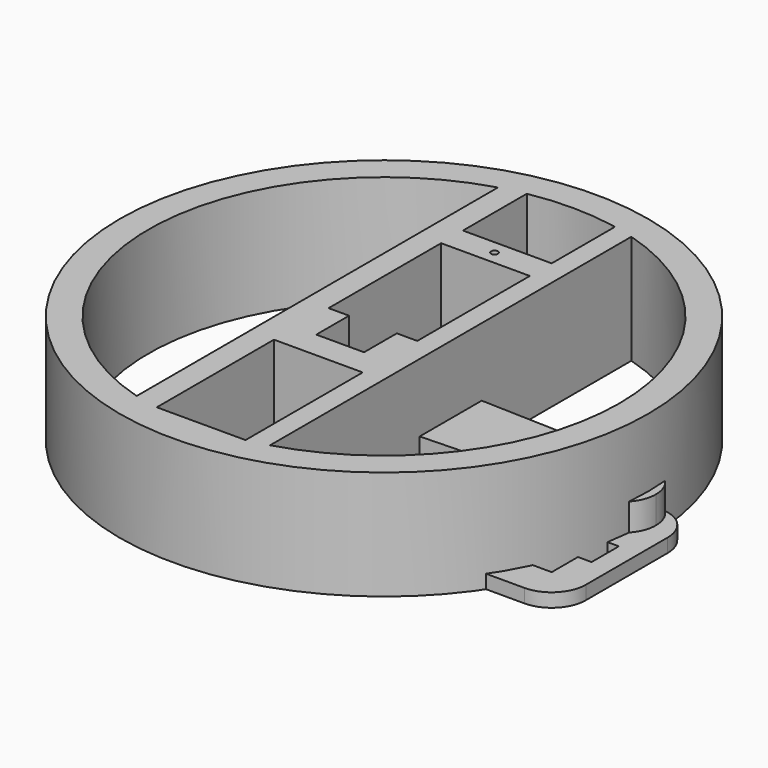
from build123d import *

# Parameters (mm, degrees)
F0_R     = 1.5
F1_DEPTH = 2
F2_R     = 2.5
F3_DEPTH = 6
F4_DEPTH = 6
F5_DEPTH = 3
F6_DEPTH = 2
F7_R     = 38.6996597828
F7_W     = 3
F7_H     = 6
F7_W_2   = 13
F7_H_2   = 4
F7_R_2   = 0.5
F8_DEPTH = 16


with BuildPart() as f1:
    # F0 (on Top) → F1 (new body)
    with BuildSketch(Plane.XY):
        with BuildLine():
            Line((37.7742823958, 3.5), (13.7742823958, 3.5))
            ThreePointArc((13.7742823958, 3.5), (10.2387484899, 2.0355339059), (8.7742823958, -1.5))
            Line((8.7742823958, -1.5), (8.7742823958, -16.5))
            ThreePointArc((8.7742823958, -16.5), (10.2387484899, -20.0355339059), (13.7742823958, -21.5))
            Line((13.7742823958, -21.5), (37.7742823958, -21.5))
            ThreePointArc((37.7742823958, -21.5), (41.3098163018, -20.0355339059), (42.7742823958, -16.5))
            Line((42.7742823958, -16.5), (42.7742823958, -1.5))
            ThreePointArc((42.7742823958, -1.5), (41.3098163018, 2.0355339059), (37.7742823958, 3.5))
        make_face()
        with Locations((25.8386814408, -19)):
            Circle(F0_R, mode=Mode.SUBTRACT)
        Polygon((13.9030804858, -16.5), (13.9030804858, -2.5), (37.7742823958, -2.5), (37.7742823958, -6.7), (39.7742823958, -6.7), (39.7742823958, -11.7), (37.7742823958, -11.7), (37.7742823958, -16.5), align=None, mode=Mode.SUBTRACT)
        with Locations((25.8386814408, 0)):
            Circle(F0_R, mode=Mode.SUBTRACT)
    extrude(amount=F1_DEPTH)


with BuildPart() as f3:
    # F2 (on Top) → F3 (new body)
    with BuildSketch(Plane.XY):
        with BuildLine():
            Line((17.5794553661, 5.423697969), (0, 6))
            ThreePointArc((0, 6), (-6, 0), (0, -6))
            Line((0, -6), (17.5794553661, -5.423697969))
            Line((17.5794553661, -5.423697969), (17.3794570281, -5.0002082628))
            Line((17.3794570281, -5.0002082628), (16.0959043206, -2.2823288828))
            Line((16.0959043206, -2.2823288828), (2.2140783206, -3.331344652))
            ThreePointArc((2.2140783206, -3.331344652), (-4, 0), (2.2140783206, 3.331344652))
            Line((2.2140783206, 3.331344652), (16.1575759853, 2.1249358199))
            Line((16.1575759853, 2.1249358199), (17.3288441212, 4.8422795309))
            Line((17.3288441212, 4.8422795309), (17.5794553661, 5.423697969))
        make_face()
        with BuildLine():
            ThreePointArc((17.3794570281, -5.0002082628), (21.4705136181, -0.0577968417), (17.3288441212, 4.8422795309))
            Line((17.3288441212, 4.8422795309), (16.1575759853, 2.1249358199))
            ThreePointArc((16.1575759853, 2.1249358199), (18.7008759361, -0.1147168864), (16.0959043206, -2.2823288828))
            Line((16.0959043206, -2.2823288828), (17.3794570281, -5.0002082628))
        make_face()
        with BuildLine():
            ThreePointArc((39.85, 0), (38.4851984916, 3.3728165492), (35.1589107322, 4.8473959379))
            ThreePointArc((35.1589107322, 4.8473959379), (33.95920204, 4.7370074526), (32.8237171443, 4.3343157397))
            ThreePointArc((32.8237171443, 4.3343157397), (30.1533127814, -0.179228917), (33.149786536, -4.4832142641))
            ThreePointArc((33.149786536, -4.4832142641), (34.1349662981, -4.7722339312), (35.1589107322, -4.8473959379))
            ThreePointArc((35.1589107322, -4.8473959379), (38.4851984916, -3.3728165492), (39.85, 0))
        make_face()
        with Locations((35, 0)):
            Circle(F2_R, mode=Mode.SUBTRACT)
        with BuildLine():
            ThreePointArc((16.0959043206, -2.2823288828), (18.7008759361, -0.1147168864), (16.1575759853, 2.1249358199))
            Line((16.1575759853, 2.1249358199), (2.2140783206, 3.331344652))
            ThreePointArc((2.2140783206, 3.331344652), (-4, 0), (2.2140783206, -3.331344652))
            Line((2.2140783206, -3.331344652), (16.0959043206, -2.2823288828))
        make_face()
        Circle(F2_R, mode=Mode.SUBTRACT)
        with BuildLine():
            Line((32.8237171443, 4.3343157397), (17.3288441212, 4.8422795309))
            ThreePointArc((17.3288441212, 4.8422795309), (21.4705136181, -0.0577968417), (17.3794570281, -5.0002082628))
            Line((17.3794570281, -5.0002082628), (33.149786536, -4.4832142641))
            ThreePointArc((33.149786536, -4.4832142641), (30.1533127814, -0.179228917), (32.8237171443, 4.3343157397))
        make_face()
    extrude(amount=F3_DEPTH)

    # F2 (on Top) → F4 (join)
    with BuildSketch(Plane.XY):
        with BuildLine():
            Line((35.1589107322, 4.8473959379), (17.5794553661, 5.423697969))
            Line((17.5794553661, 5.423697969), (17.3288441212, 4.8422795309))
            Line((17.3288441212, 4.8422795309), (32.8237171443, 4.3343157397))
            ThreePointArc((32.8237171443, 4.3343157397), (33.95920204, 4.7370074526), (35.1589107322, 4.8473959379))
        make_face()
        with BuildLine():
            Line((17.3794570281, -5.0002082628), (17.5794553661, -5.423697969))
            Line((17.5794553661, -5.423697969), (35.1589107322, -4.8473959379))
            ThreePointArc((35.1589107322, -4.8473959379), (34.1349662981, -4.7722339312), (33.149786536, -4.4832142641))
            Line((33.149786536, -4.4832142641), (17.3794570281, -5.0002082628))
        make_face()
    extrude(amount=F4_DEPTH)

    # F2 (on Top) → F5 (cut)
    with BuildSketch(Plane.XY):
        with BuildLine():
            ThreePointArc((16.0959043206, -2.2823288828), (18.7008759361, -0.1147168864), (16.1575759853, 2.1249358199))
            Line((16.1575759853, 2.1249358199), (2.2140783206, 3.331344652))
            ThreePointArc((2.2140783206, 3.331344652), (-4, 0), (2.2140783206, -3.331344652))
            Line((2.2140783206, -3.331344652), (16.0959043206, -2.2823288828))
        make_face()
        Circle(F2_R, mode=Mode.SUBTRACT)
    extrude(amount=F5_DEPTH, mode=Mode.SUBTRACT)

    # F2 (on Top) → F6 (cut)
    with BuildSketch(Plane.XY):
        with BuildLine():
            Line((32.8237171443, 4.3343157397), (17.3288441212, 4.8422795309))
            ThreePointArc((17.3288441212, 4.8422795309), (21.4705136181, -0.0577968417), (17.3794570281, -5.0002082628))
            Line((17.3794570281, -5.0002082628), (33.149786536, -4.4832142641))
            ThreePointArc((33.149786536, -4.4832142641), (30.1533127814, -0.179228917), (32.8237171443, 4.3343157397))
        make_face()
    extrude(amount=F6_DEPTH, mode=Mode.SUBTRACT)


with BuildPart() as f8:
    # F7 (on Top) → F8 (new body)
    with BuildSketch(Plane.XY):
        Circle(F7_R)
        with BuildLine():
            ThreePointArc((9.7724765655, 33.0869868948), (27.6351265739, 20.653081592), (34.5, 0))
            ThreePointArc((34.5, 0), (27.6351265739, -20.653081592), (9.7724765655, -33.0869868948))
            ThreePointArc((9.7724765655, -33.0869868948), (8.2807860411, -33.4914702953), (6.7724765655, -33.8287386872))
            ThreePointArc((6.7724765655, -33.8287386872), (-1.5451695475, -34.4653804719), (-9.7724765655, -33.0869868948))
            ThreePointArc((-9.7724765655, -33.0869868948), (-34.5, 0), (-9.7724765655, 33.0869868948))
            ThreePointArc((-9.7724765655, 33.0869868948), (-8.0111831757, 33.5569805573), (-6.2275234345, 33.9332867826))
            ThreePointArc((-6.2275234345, 33.9332867826), (0, 34.5), (6.2275234345, 33.9332867826))
            ThreePointArc((6.2275234345, 33.9332867826), (6.5002101948, 33.8821083675), (6.7724765655, 33.8287386872))
            ThreePointArc((6.7724765655, 33.8287386872), (8.2807860411, 33.4914702953), (9.7724765655, 33.0869868948))
        make_face(mode=Mode.SUBTRACT)
        with Locations((5.2724765655, -5.3665565625)):
            Rectangle(F7_W, F7_H)
        with Locations((-4.7275234345, -5.3665565625)):
            Rectangle(F7_W, F7_H)
        with BuildLine():
            Line((9.7724765655, -33.0869868948), (9.7724765655, 33.0869868948))
            ThreePointArc((9.7724765655, 33.0869868948), (8.2807860411, 33.4914702953), (6.7724765655, 33.8287386872))
            Line((6.7724765655, 33.8287386872), (6.7724765655, 22.2471028529))
            Line((6.7724765655, 22.2471028529), (6.7724765655, 18.2471028529))
            Line((6.7724765655, 18.2471028529), (6.7724765655, -2.3665565625))
            Line((6.7724765655, -2.3665565625), (6.7724765655, -8.3665565625))
            Line((6.7724765655, -8.3665565625), (6.7724765655, -12.3665565625))
            Line((6.7724765655, -12.3665565625), (6.7724765655, -33.8287386872))
            ThreePointArc((6.7724765655, -33.8287386872), (8.2807860411, -33.4914702953), (9.7724765655, -33.0869868948))
        make_face()
        with Locations((0.2724765655, 20.2471028529)):
            Rectangle(F7_W_2, F7_H_2)
        with Locations((0, 20.2471028529)):
            Circle(F7_R_2, mode=Mode.SUBTRACT)
        with BuildLine():
            ThreePointArc((-9.7724765655, -33.0869868948), (-1.5451695475, -34.4653804719), (6.7724765655, -33.8287386872))
            Line((6.7724765655, -33.8287386872), (-6.2275234345, -33.8287386872))
            Line((-6.2275234345, -33.8287386872), (-6.2275234345, -12.3665565625))
            Line((-6.2275234345, -12.3665565625), (-6.2275234345, -8.3665565625))
            Line((-6.2275234345, -8.3665565625), (-6.2275234345, -2.3665565625))
            Line((-6.2275234345, -2.3665565625), (-6.2275234345, 18.2471028529))
            Line((-6.2275234345, 18.2471028529), (-6.2275234345, 22.2471028529))
            Line((-6.2275234345, 22.2471028529), (-6.2275234345, 33.9332867826))
            ThreePointArc((-6.2275234345, 33.9332867826), (-8.0111831757, 33.5569805573), (-9.7724765655, 33.0869868948))
            Line((-9.7724765655, 33.0869868948), (-9.7724765655, -33.0869868948))
        make_face()
        Polygon((-6.2275234345, -12.3665565625), (6.7724765655, -12.3665565625), (6.7724765655, -8.3665565625), (3.7724765655, -8.3665565625), (-3.2275234345, -8.3665565625), (-6.2275234345, -8.3665565625), align=None)
    extrude(amount=F8_DEPTH)


solid = Compound([f1.part, f3.part, f8.part])
